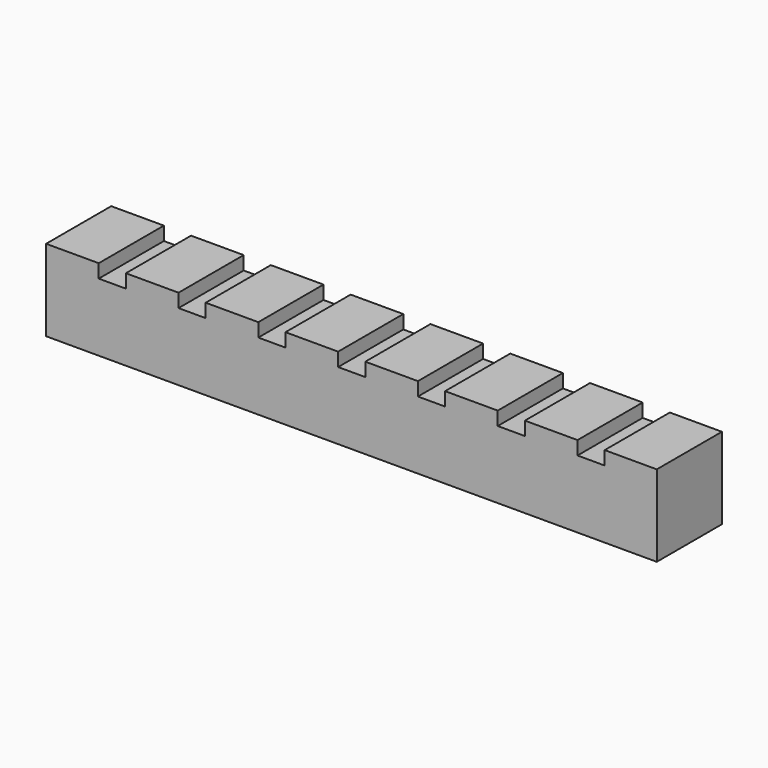
from build123d import *

# Parameters (mm, degrees)
F1_DEPTH = 38.1


with BuildPart() as f1:
    # F0 (on Front) → F1 (new body, symmetric)
    with BuildSketch(Plane.XZ):
        Polygon((-236.474, 38.1), (-285.75, 38.1), (-285.75, -38.1), (285.75, -38.1), (285.75, 38.1), (236.982, 38.1), (236.982, 25.4), (211.582, 25.4), (211.582, 38.1), (162.306, 38.1), (162.306, 25.4), (136.906, 25.4), (136.906, 38.1), (87.63, 38.1), (87.63, 25.4), (62.23, 25.4), (62.23, 38.1), (12.954, 38.1), (12.954, 25.4), (-12.446, 25.4), (-12.446, 38.1), (-61.722, 38.1), (-61.722, 25.4), (-87.122, 25.4), (-87.122, 38.1), (-136.398, 38.1), (-136.398, 25.4), (-161.798, 25.4), (-161.798, 38.1), (-211.074, 38.1), (-211.074, 25.4), (-236.474, 25.4), align=None)
    extrude(amount=F1_DEPTH, both=True)


solid = f1.part
